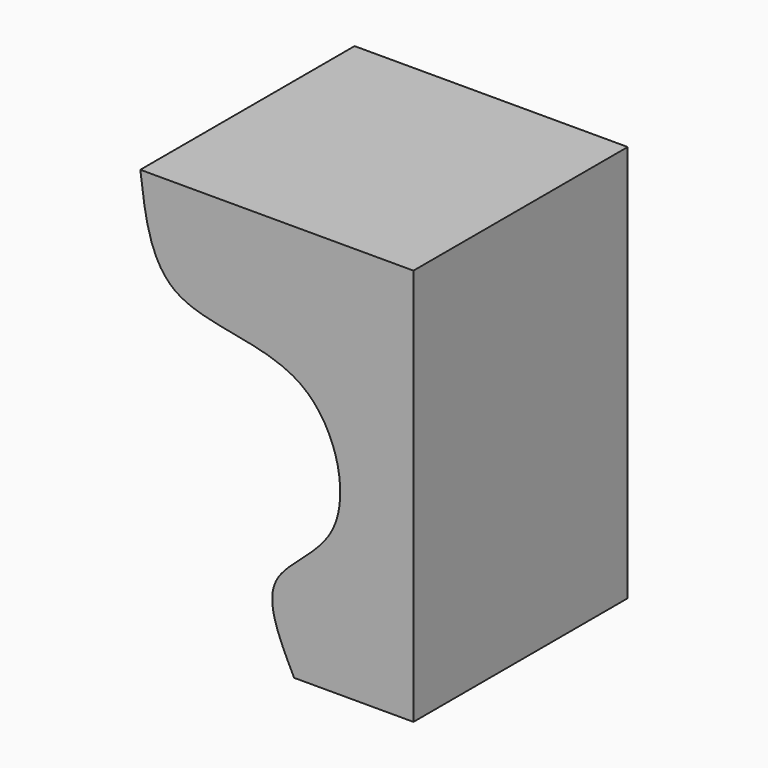
from build123d import *

# Parameters (mm, degrees)
F1_DEPTH = 50.8


with BuildPart() as f1:
    # F0 (on Front) → F1 (new body)
    with BuildSketch(Plane.XZ):
        with BuildLine():
            Line((29.4065959752, -37.6830138266), (29.4065959752, 37.6830138266))
            Line((29.4065959752, 37.6830138266), (-22.4088132381, 37.6830138266))
            add(Edge.make_bspline(
                [(-22.4088132381, 37.6830138266), (-21.5063735298, 30.2737847301), (-19.5830274674, 14.4826892399), (12.0585235163, 17.6860149966), (19.4450206318, -12.48344068), (-1.3712648597, -21.4248051366), (4.110263736, -32.3744895847), (6.7677674815, -37.6830138266)],
                knots=[0, 0, 0, 0, 0.1993185008, 0.4248022889, 0.6385356057, 0.824758192, 1, 1, 1, 1], degree=3))
            Line((6.7677674815, -37.6830138266), (29.4065959752, -37.6830138266))
        make_face()
    extrude(amount=F1_DEPTH)


solid = f1.part
